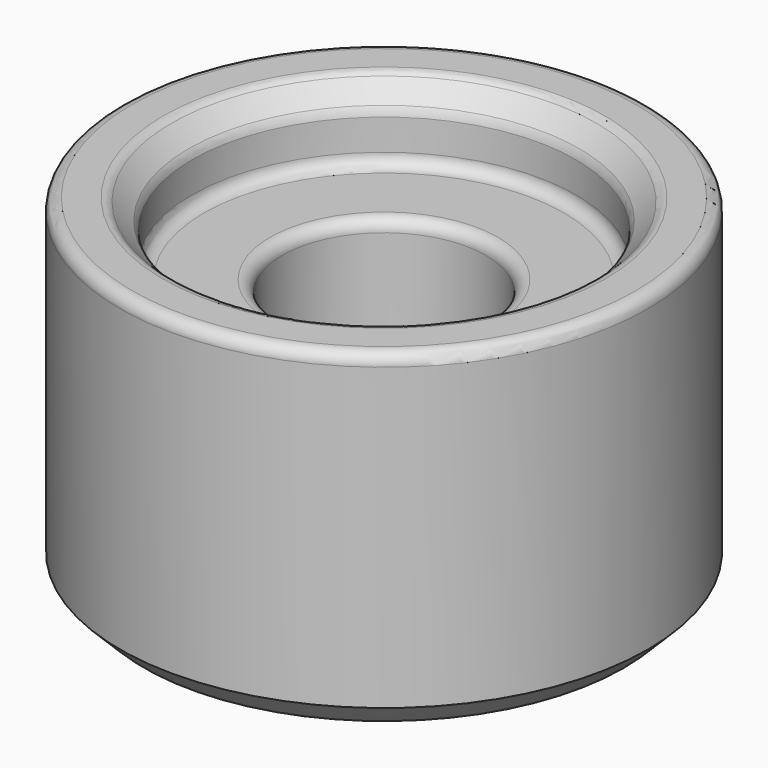
from build123d import *

# Parameters (mm, degrees)
F0_R     = 11
F0_R_2   = 8
F0_R_3   = 4.25
F1_DEPTH = 11
F2_DEPTH = 14
F3_SIZE  = 1
F4_R     = 0.5
F5_SIZE  = 1


with BuildPart() as f1:
    # F0 (on Top) → F1 (new body)
    with BuildSketch(Plane.XY):
        Circle(F0_R)
        Circle(F0_R_2, mode=Mode.SUBTRACT)
        Circle(F0_R_2)
        Circle(F0_R_3, mode=Mode.SUBTRACT)
    extrude(amount=F1_DEPTH)

    # F0 (on Top) → F2 (join)
    with BuildSketch(Plane.XY):
        Circle(F0_R)
        Circle(F0_R_2, mode=Mode.SUBTRACT)
    extrude(amount=F2_DEPTH)

    # F3
    f3_edges = [f1.edges().sort_by_distance(p)[0] for p in [
        (-8, 0, 14),
    ]]
    chamfer(f3_edges, length=F3_SIZE)

    # F4
    f4_edges = [f1.edges().sort_by_distance(p)[0] for p in [
        (-9, 0, 14),
        (-8, 0, 13),
        (-11, 0, 14),
        (-8, 0, 11),
        (-4.25, 0, 11),
    ]]
    fillet(f4_edges, radius=F4_R)

    # F5
    f5_edges = [f1.edges().sort_by_distance(p)[0] for p in [
        (-11, 0, 0),
        (-4.25, 0, 0),
    ]]
    chamfer(f5_edges, length=F5_SIZE)


solid = f1.part
